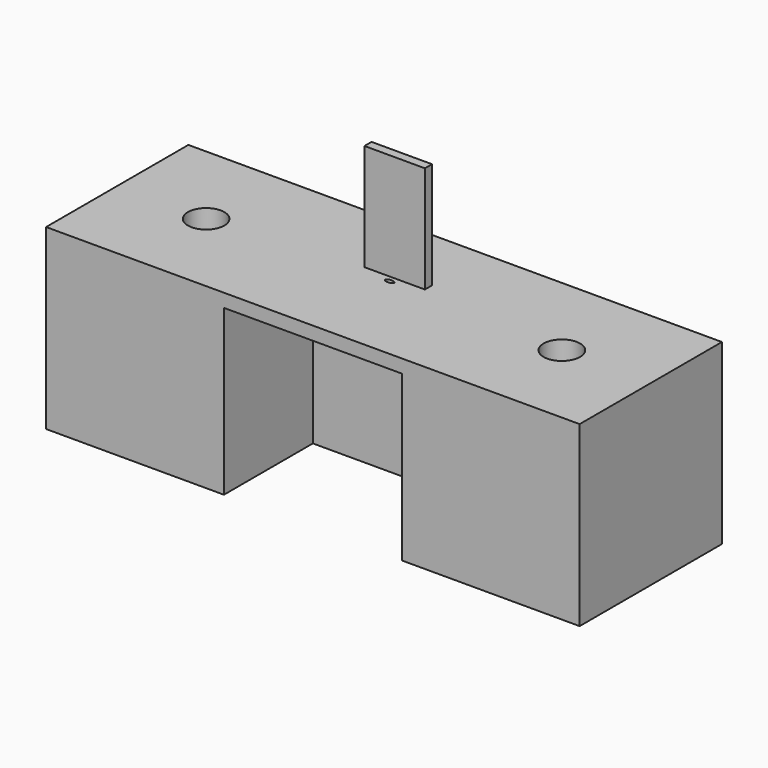
from build123d import *

# Parameters (mm, degrees)
F0_W      = 200
F0_H      = 75
F1_DEPTH  = 200
F2_W      = 200
F2_H      = 15
F3_DEPTH  = 125
F4_W      = 68
F4_H      = 10
F5_DEPTH  = 120
F7_DEPTH  = 15
F8_R      = 3
F9_DEPTH  = 5
F10_R     = 20.5
F11_DEPTH = 25


with BuildPart() as f1:
    # F0 (on Top) → F1 (new body)
    with BuildSketch(Plane.XY):
        Polygon((-100, -75), (-100, 0), (-300, 0), (-300, -200), (-100, -200), align=None)
        Polygon((300, 0), (100, 0), (100, -75), (100, -200), (300, -200), align=None)
        with Locations((0, -37.5)):
            Rectangle(F0_W, F0_H)
    extrude(amount=F1_DEPTH)

    # F2 (on face) → F3 (join)
    with BuildSketch(Plane.XZ.offset(75)):
        with Locations((0, 192.5)):
            Rectangle(F2_W, F2_H)
    extrude(amount=F3_DEPTH)

    # F4 (on face) → F5 (join)
    with BuildSketch(Plane.XY.offset(200)):
        with Locations((0, -80)):
            Rectangle(F4_W, F4_H)
    extrude(amount=F5_DEPTH)

    # F6 (on face) → F7 (cut, through all)
    with BuildSketch(Plane.XY.offset(200)):
        with BuildLine():
            add(Edge.make_bspline(
                [(5, -92.05), (5, -87.719873), (-2.5, -89.884936), (-10, -92.05), (-2.5, -94.215064), (5, -96.380127), (5, -92.05)],
                knots=[0, 0, 0, 2.094395, 2.094395, 4.18879, 4.18879, 6.283185, 6.283185, 6.283185], degree=2, weights=[1, 0.5, 1, 0.5, 1, 0.5, 1]))
        make_face()
    extrude(amount=-F7_DEPTH, mode=Mode.SUBTRACT)

    # F8 (on face) → F9 (cut)
    with BuildSketch(Plane.XZ.offset(75)):
        with Locations((0, 125)):
            Circle(F8_R)
    extrude(amount=-F9_DEPTH, mode=Mode.SUBTRACT)

    # F10 (on face) → F11 (cut)
    with BuildSketch(Plane.XY.offset(200)):
        with Locations((-200, -100)):
            Circle(F10_R)
        with Locations((200, -100)):
            Circle(F10_R)
    extrude(amount=-F11_DEPTH, mode=Mode.SUBTRACT)


solid = f1.part
